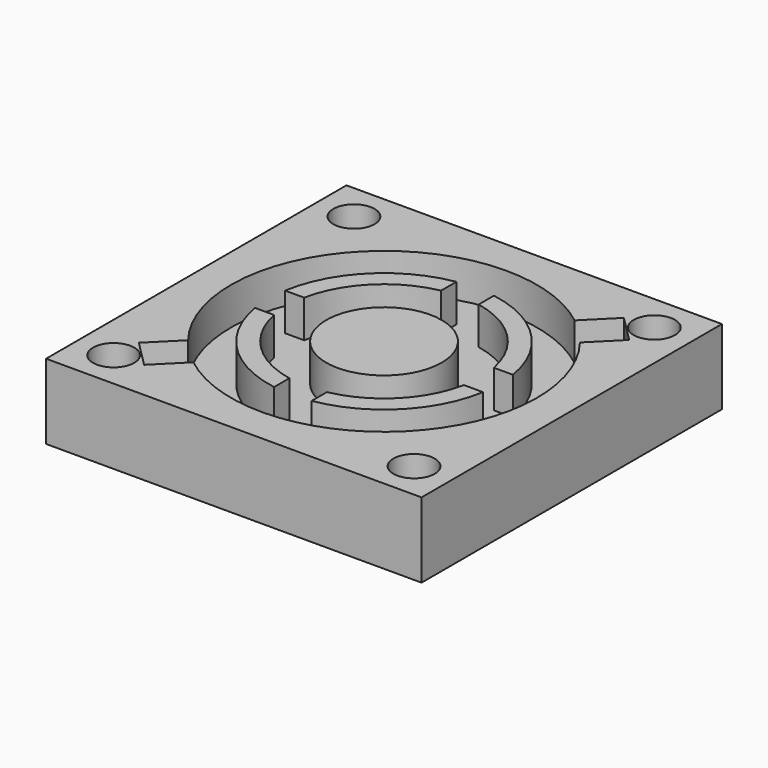
from build123d import *

# Parameters (mm, degrees)
F0_W     = 10
F0_H     = 10
F0_R     = 0.55
F0_R_2   = 1.537619
F1_DEPTH = 2
F2_DEPTH = 1


with BuildPart() as f1:
    # F0 (on Top) → F1 (new body)
    with BuildSketch(Plane.XY):
        Rectangle(F0_W, F0_H)
        with Locations((-4, -4)):
            Circle(F0_R, mode=Mode.SUBTRACT)
        with Locations((4, -4)):
            Circle(F0_R, mode=Mode.SUBTRACT)
        with Locations((-4, 4)):
            Circle(F0_R, mode=Mode.SUBTRACT)
        with BuildLine():
            ThreePointArc((-3.213514, -2.50617), (-2.881628, 2.881628), (2.50617, 3.213514))
            Line((2.50617, 3.213514), (3.235023, 3.942367))
            Line((3.235023, 3.942367), (3.603887, 3.573503))
            Line((3.603887, 3.573503), (3.942129, 3.23526))
            Line((3.942129, 3.23526), (3.213306, 2.506437))
            ThreePointArc((3.213306, 2.506437), (2.881628, -2.881628), (-2.506437, -3.213306))
            Line((-2.506437, -3.213306), (-3.23526, -3.942129))
            Line((-3.23526, -3.942129), (-3.573503, -3.603887))
            Line((-3.573503, -3.603887), (-3.942367, -3.235023))
            Line((-3.942367, -3.235023), (-3.213514, -2.50617))
        make_face(mode=Mode.SUBTRACT)
        with Locations((4, 4)):
            Circle(F0_R, mode=Mode.SUBTRACT)
        with BuildLine():
            Line((3.235023, 3.942367), (2.50617, 3.213514))
            ThreePointArc((2.50617, 3.213514), (-2.881628, 2.881628), (-3.213514, -2.50617))
            Line((-3.213514, -2.50617), (-3.942367, -3.235023))
            Line((-3.942367, -3.235023), (-3.573503, -3.603887))
            Line((-3.573503, -3.603887), (-3.23526, -3.942129))
            Line((-3.23526, -3.942129), (-2.506437, -3.213306))
            ThreePointArc((-2.506437, -3.213306), (2.881628, -2.881628), (3.213306, 2.506437))
            Line((3.213306, 2.506437), (3.942129, 3.23526))
            Line((3.942129, 3.23526), (3.603887, 3.573503))
            Line((3.603887, 3.573503), (3.235023, 3.942367))
        make_face()
        with BuildLine():
            Line((-3.034318, -0.5), (-2.526232, -0.5))
            ThreePointArc((-2.526232, -0.5), (-1.820968, -1.820968), (-0.5, -2.526232))
            Line((-0.5, -2.526232), (-0.5, -3.034318))
            ThreePointArc((-0.5, -3.034318), (-2.174521, -2.174521), (-3.034318, -0.5))
        make_face(mode=Mode.SUBTRACT)
        with BuildLine():
            ThreePointArc((0.5, -2.526232), (1.820968, -1.820968), (2.526232, -0.5))
            Line((2.526232, -0.5), (3.034318, -0.5))
            ThreePointArc((3.034318, -0.5), (2.174521, -2.174521), (0.5, -3.034318))
            Line((0.5, -3.034318), (0.5, -2.526232))
        make_face(mode=Mode.SUBTRACT)
        with BuildLine():
            ThreePointArc((-0.5, 2.526232), (-1.820968, 1.820968), (-2.526232, 0.5))
            Line((-2.526232, 0.5), (-3.034318, 0.5))
            ThreePointArc((-3.034318, 0.5), (-2.174521, 2.174521), (-0.5, 3.034318))
            Line((-0.5, 3.034318), (-0.5, 2.526232))
        make_face(mode=Mode.SUBTRACT)
        Circle(F0_R_2, mode=Mode.SUBTRACT)
        with BuildLine():
            Line((3.034318, 0.5), (2.526232, 0.5))
            ThreePointArc((2.526232, 0.5), (1.820968, 1.820968), (0.5, 2.526232))
            Line((0.5, 2.526232), (0.5, 3.034318))
            ThreePointArc((0.5, 3.034318), (2.174521, 2.174521), (3.034318, 0.5))
        make_face(mode=Mode.SUBTRACT)
        with BuildLine():
            ThreePointArc((-0.5, -2.526232), (-1.820968, -1.820968), (-2.526232, -0.5))
            Line((-2.526232, -0.5), (-3.034318, -0.5))
            ThreePointArc((-3.034318, -0.5), (-2.174521, -2.174521), (-0.5, -3.034318))
            Line((-0.5, -3.034318), (-0.5, -2.526232))
        make_face()
        with BuildLine():
            Line((-3.034318, 0.5), (-2.526232, 0.5))
            ThreePointArc((-2.526232, 0.5), (-1.820968, 1.820968), (-0.5, 2.526232))
            Line((-0.5, 2.526232), (-0.5, 3.034318))
            ThreePointArc((-0.5, 3.034318), (-2.174521, 2.174521), (-3.034318, 0.5))
        make_face()
        with BuildLine():
            ThreePointArc((0.5, 2.526232), (1.820968, 1.820968), (2.526232, 0.5))
            Line((2.526232, 0.5), (3.034318, 0.5))
            ThreePointArc((3.034318, 0.5), (2.174521, 2.174521), (0.5, 3.034318))
            Line((0.5, 3.034318), (0.5, 2.526232))
        make_face()
        with BuildLine():
            Line((3.034318, -0.5), (2.526232, -0.5))
            ThreePointArc((2.526232, -0.5), (1.820968, -1.820968), (0.5, -2.526232))
            Line((0.5, -2.526232), (0.5, -3.034318))
            ThreePointArc((0.5, -3.034318), (2.174521, -2.174521), (3.034318, -0.5))
        make_face()
        Circle(F0_R_2)
    extrude(amount=-F1_DEPTH)

    # F0 (on Top) → F2 (cut)
    with BuildSketch(Plane.XY):
        with BuildLine():
            Line((3.235023, 3.942367), (2.50617, 3.213514))
            ThreePointArc((2.50617, 3.213514), (-2.881628, 2.881628), (-3.213514, -2.50617))
            Line((-3.213514, -2.50617), (-3.942367, -3.235023))
            Line((-3.942367, -3.235023), (-3.573503, -3.603887))
            Line((-3.573503, -3.603887), (-3.23526, -3.942129))
            Line((-3.23526, -3.942129), (-2.506437, -3.213306))
            ThreePointArc((-2.506437, -3.213306), (2.881628, -2.881628), (3.213306, 2.506437))
            Line((3.213306, 2.506437), (3.942129, 3.23526))
            Line((3.942129, 3.23526), (3.603887, 3.573503))
            Line((3.603887, 3.573503), (3.235023, 3.942367))
        make_face()
        with BuildLine():
            Line((-3.034318, -0.5), (-2.526232, -0.5))
            ThreePointArc((-2.526232, -0.5), (-1.820968, -1.820968), (-0.5, -2.526232))
            Line((-0.5, -2.526232), (-0.5, -3.034318))
            ThreePointArc((-0.5, -3.034318), (-2.174521, -2.174521), (-3.034318, -0.5))
        make_face(mode=Mode.SUBTRACT)
        with BuildLine():
            ThreePointArc((0.5, -2.526232), (1.820968, -1.820968), (2.526232, -0.5))
            Line((2.526232, -0.5), (3.034318, -0.5))
            ThreePointArc((3.034318, -0.5), (2.174521, -2.174521), (0.5, -3.034318))
            Line((0.5, -3.034318), (0.5, -2.526232))
        make_face(mode=Mode.SUBTRACT)
        with BuildLine():
            ThreePointArc((-0.5, 2.526232), (-1.820968, 1.820968), (-2.526232, 0.5))
            Line((-2.526232, 0.5), (-3.034318, 0.5))
            ThreePointArc((-3.034318, 0.5), (-2.174521, 2.174521), (-0.5, 3.034318))
            Line((-0.5, 3.034318), (-0.5, 2.526232))
        make_face(mode=Mode.SUBTRACT)
        Circle(F0_R_2, mode=Mode.SUBTRACT)
        with BuildLine():
            Line((3.034318, 0.5), (2.526232, 0.5))
            ThreePointArc((2.526232, 0.5), (1.820968, 1.820968), (0.5, 2.526232))
            Line((0.5, 2.526232), (0.5, 3.034318))
            ThreePointArc((0.5, 3.034318), (2.174521, 2.174521), (3.034318, 0.5))
        make_face(mode=Mode.SUBTRACT)
    extrude(amount=-F2_DEPTH, mode=Mode.SUBTRACT)


solid = f1.part
